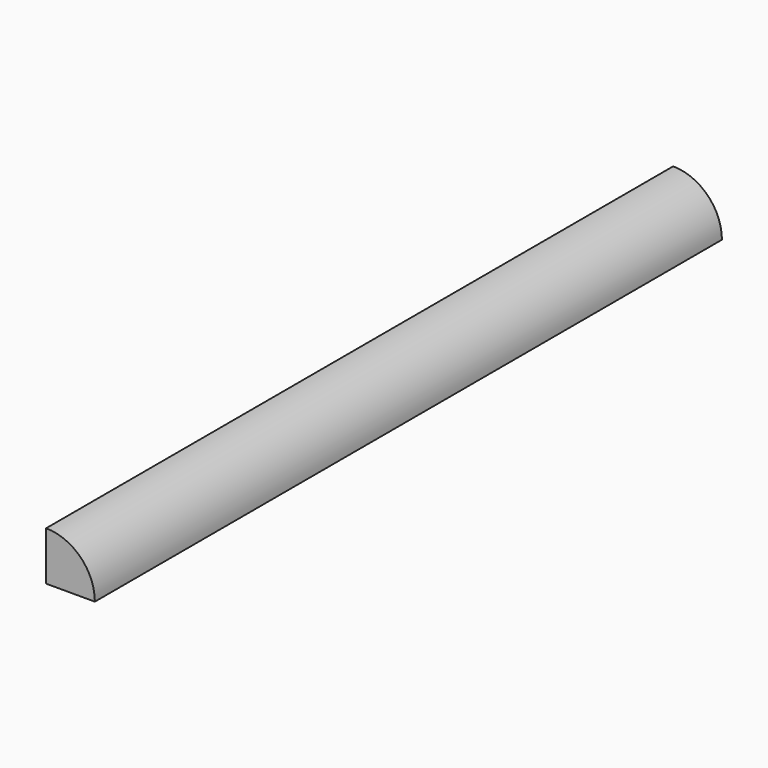
from build123d import *

# Parameters (mm, degrees)
F1_DEPTH = 225


with BuildPart() as f1:
    # F0 (on Front) → F1 (new body, symmetric)
    with BuildSketch(Plane.XZ):
        with BuildLine():
            Line((0, 0), (28, 0))
            ThreePointArc((28, 0), (19.79899, 19.79899), (0, 28))
            Line((0, 28), (0, 0))
        make_face()
    extrude(amount=F1_DEPTH, both=True)


solid = f1.part
